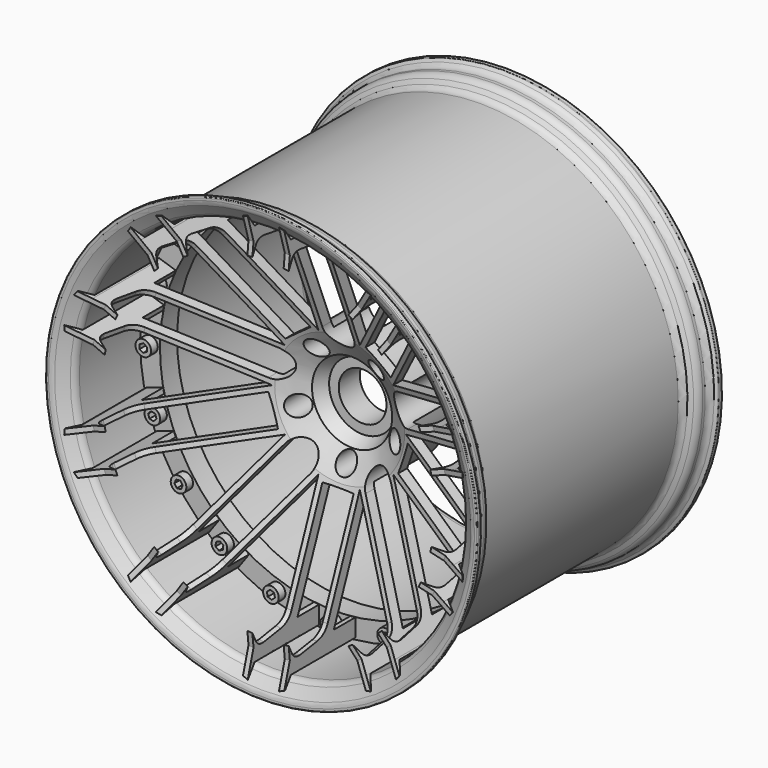
from build123d import *

# Parameters (mm, degrees)
F3_R      = 7.35181
F3_R_2    = 18.073419
F4_DEPTH  = 114.081689
F7_W      = 16.201334
F7_H      = 15.073866
F9_R      = 5.915475
F10_DEPTH = 6.35


with BuildPart() as f1:
    # F0 (on Right) → F1 (revolve)
    with BuildSketch(Plane.YZ):
        with BuildLine():
            Line((0, 25.369024), (0, 0))
            Line((0, 0), (19.948289, 0))
            Line((19.948289, 0), (19.948289, 49.220245))
            Line((19.948289, 49.220245), (-13.226585, 49.220245))
            Line((-13.226585, 49.220245), (-46.835124, 132.482678))
            Line((-46.835124, 132.482678), (-26.453171, 132.482678))
            Line((-26.453171, 132.482678), (-26.453171, 145.926103))
            Line((-26.453171, 145.926103), (-87.382197, 145.926103))
            Line((-87.382197, 145.926103), (-94.124854, 155.55244))
            Line((-94.124854, 155.55244), (-88.466343, 135.951951))
            Line((-88.466343, 135.951951), (-89.550488, 125.977799))
            Line((-89.550488, 125.977799), (-86.304978, 132.609936))
            ThreePointArc((-86.304978, 132.609936), (-83.962747, 135.206094), (-80.601301, 136.168778))
            Line((-80.601301, 136.168778), (-78.709029, 136.168778))
            Line((-78.709029, 136.168778), (-62.39999, 133.601613))
            ThreePointArc((-62.39999, 133.601613), (-56.471927, 130.997681), (-52.597961, 125.809736))
            Line((-52.597961, 125.809736), (-21.682927, 49.220245))
            Line((-21.682927, 49.220245), (-9.974146, 30.356098))
            Line((-9.974146, 30.356098), (0, 25.369024))
        make_face()
    revolve(axis=Axis((0, 9.106828, 0), (0, 1, 0)))

    # F3 (on offset) → F4 (intersect, through all)
    with BuildSketch(Plane.XZ.offset(94.1324)):
        with BuildLine():
            Line((15.650561, -143.704474), (15.650561, -48.167475))
            Line((15.650561, -48.167475), (71.805801, -125.458531))
            Line((71.805801, -125.458531), (77.425853, -133.193869))
            Line((77.425853, -133.193869), (81.356541, -132.105346))
            Line((81.356541, -132.105346), (75.736488, -124.370007))
            Line((75.736488, -124.370007), (75.729283, -124.372003))
            Line((75.729283, -124.372003), (20.809784, -48.781796))
            Line((20.809784, -48.781796), (20.815448, -48.777681))
            ThreePointArc((20.815448, -48.777681), (23.432011, -32.257352), (39.952339, -34.873915))
            Line((39.952339, -34.873915), (39.958004, -34.8698))
            Line((39.958004, -34.8698), (94.879044, -110.462127))
            Line((94.879044, -110.462127), (100.499096, -118.197465))
            Line((100.499096, -118.197465), (102.748993, -114.795531))
            Line((102.748993, -114.795531), (97.12894, -107.060193))
            Line((97.12894, -107.060193), (40.973701, -29.769136))
            Line((40.973701, -29.769136), (131.834787, -59.291693))
            Line((131.834787, -59.291693), (140.928223, -62.246329))
            Line((140.928223, -62.246329), (143.468398, -59.055295))
            Line((143.468398, -59.055295), (134.374962, -56.100659))
            Line((134.374962, -56.100659), (134.370306, -56.106508))
            Line((134.370306, -56.106508), (45.508689, -27.233618))
            Line((45.508689, -27.233618), (52.822658, -4.723535))
            Line((52.822658, -4.723535), (141.686768, -33.597235))
            Line((141.686768, -33.597235), (150.780204, -36.551871))
            Line((150.780204, -36.551871), (150.600802, -32.477193))
            Line((150.600802, -32.477193), (141.507366, -29.522556))
            Line((141.507366, -29.522556), (50.64628, 0))
            Line((50.64628, 0), (141.507366, 29.522556))
            Line((141.507366, 29.522556), (150.600802, 32.477193))
            Line((150.600802, 32.477193), (150.780204, 36.551871))
            Line((150.780204, 36.551871), (141.686768, 33.597235))
            Line((141.686768, 33.597235), (141.686439, 33.589766))
            Line((141.686439, 33.589766), (52.824822, 4.716876))
            ThreePointArc((52.824822, 4.716876), (37.912796, 12.314933), (45.510853, 27.226959))
            Line((45.510853, 27.226959), (134.374962, 56.100659))
            Line((134.374962, 56.100659), (143.468398, 59.055295))
            Line((143.468398, 59.055295), (140.928223, 62.246329))
            Line((140.928223, 62.246329), (131.834787, 59.291693))
            Line((131.834787, 59.291693), (40.973701, 29.769136))
            Line((40.973701, 29.769136), (97.12894, 107.060193))
            Line((97.12894, 107.060193), (102.748993, 114.795531))
            Line((102.748993, 114.795531), (100.499096, 118.197465))
            Line((100.499096, 118.197465), (94.879044, 110.462127))
            Line((94.879044, 110.462127), (94.883168, 110.455891))
            Line((94.883168, 110.455891), (39.963668, 34.865684))
            Line((39.963668, 34.865684), (20.815448, 48.777681))
            Line((20.815448, 48.777681), (75.736488, 124.370007))
            Line((75.736488, 124.370007), (81.356541, 132.105346))
            Line((81.356541, 132.105346), (77.425853, 133.193869))
            Line((77.425853, 133.193869), (71.805801, 125.458531))
            Line((71.805801, 125.458531), (15.650561, 48.167475))
            Line((15.650561, 48.167475), (15.650561, 143.704474))
            Line((15.650561, 143.704474), (15.650561, 153.265879))
            Line((15.650561, 153.265879), (11.83075, 154.695645))
            Line((11.83075, 154.695645), (11.83075, 145.13424))
            Line((11.83075, 145.13424), (11.837752, 145.13162))
            Line((11.837752, 145.13162), (11.837752, 51.696986))
            ThreePointArc((11.837752, 51.696986), (-0.203573, 39.860985), (-11.83075, 52.104072))
            Line((-11.83075, 52.104072), (-11.83075, 145.13424))
            Line((-11.83075, 145.13424), (-11.83075, 154.695645))
            Line((-11.83075, 154.695645), (-15.650561, 153.265879))
            Line((-15.650561, 153.265879), (-15.650561, 143.704474))
            Line((-15.650561, 143.704474), (-15.650561, 48.167475))
            Line((-15.650561, 48.167475), (-71.805801, 125.458531))
            Line((-71.805801, 125.458531), (-77.425853, 133.193869))
            Line((-77.425853, 133.193869), (-81.356541, 132.105346))
            Line((-81.356541, 132.105346), (-75.736488, 124.370007))
            Line((-75.736488, 124.370007), (-75.729283, 124.372003))
            Line((-75.729283, 124.372003), (-20.809784, 48.781796))
            Line((-20.809784, 48.781796), (-39.958004, 34.8698))
            Line((-39.958004, 34.8698), (-94.879044, 110.462127))
            Line((-94.879044, 110.462127), (-100.499096, 118.197465))
            Line((-100.499096, 118.197465), (-102.748993, 114.795531))
            Line((-102.748993, 114.795531), (-97.12894, 107.060193))
            Line((-97.12894, 107.060193), (-40.973701, 29.769136))
            Line((-40.973701, 29.769136), (-131.834787, 59.291693))
            Line((-131.834787, 59.291693), (-140.928223, 62.246329))
            Line((-140.928223, 62.246329), (-143.468398, 59.055295))
            Line((-143.468398, 59.055295), (-134.374962, 56.100659))
            Line((-134.374962, 56.100659), (-134.370306, 56.106508))
            Line((-134.370306, 56.106508), (-45.508689, 27.233618))
            ThreePointArc((-45.508689, 27.233618), (-37.910632, 12.321592), (-52.822658, 4.723535))
            Line((-52.822658, 4.723535), (-141.686768, 33.597235))
            Line((-141.686768, 33.597235), (-150.780204, 36.551871))
            Line((-150.780204, 36.551871), (-150.600802, 32.477193))
            Line((-150.600802, 32.477193), (-141.507366, 29.522556))
            Line((-141.507366, 29.522556), (-50.64628, 0))
            Line((-50.64628, 0), (-141.507366, -29.522556))
            Line((-141.507366, -29.522556), (-150.600802, -32.477193))
            Line((-150.600802, -32.477193), (-150.780204, -36.551871))
            Line((-150.780204, -36.551871), (-141.686768, -33.597235))
            Line((-141.686768, -33.597235), (-141.686439, -33.589766))
            Line((-141.686439, -33.589766), (-52.824822, -4.716876))
            Line((-52.824822, -4.716876), (-45.510853, -27.226959))
            Line((-45.510853, -27.226959), (-134.374962, -56.100659))
            Line((-134.374962, -56.100659), (-143.468398, -59.055295))
            Line((-143.468398, -59.055295), (-140.928223, -62.246329))
            Line((-140.928223, -62.246329), (-131.834787, -59.291693))
            Line((-131.834787, -59.291693), (-40.973701, -29.769136))
            Line((-40.973701, -29.769136), (-97.12894, -107.060193))
            Line((-97.12894, -107.060193), (-102.748993, -114.795531))
            Line((-102.748993, -114.795531), (-100.499096, -118.197465))
            Line((-100.499096, -118.197465), (-94.879044, -110.462127))
            Line((-94.879044, -110.462127), (-94.883168, -110.455891))
            Line((-94.883168, -110.455891), (-40.202983, -35.195073))
            ThreePointArc((-40.202983, -35.195073), (-23.429445, -32.241908), (-21.054763, -49.107069))
            Line((-21.054763, -49.107069), (-75.736488, -124.370007))
            Line((-75.736488, -124.370007), (-81.356541, -132.105346))
            Line((-81.356541, -132.105346), (-77.425853, -133.193869))
            Line((-77.425853, -133.193869), (-71.805801, -125.458531))
            Line((-71.805801, -125.458531), (-15.650561, -48.167475))
            Line((-15.650561, -48.167475), (-15.650561, -143.704474))
            Line((-15.650561, -143.704474), (-15.650561, -153.265879))
            Line((-15.650561, -153.265879), (-11.83075, -154.695645))
            Line((-11.83075, -154.695645), (-11.83075, -145.13424))
            Line((-11.83075, -145.13424), (-11.837752, -145.13162))
            Line((-11.837752, -145.13162), (-11.837752, -51.696986))
            Line((-11.837752, -51.696986), (11.83075, -51.696986))
            Line((11.83075, -51.696986), (11.83075, -145.13424))
            Line((11.83075, -145.13424), (11.83075, -154.695645))
            Line((11.83075, -154.695645), (15.650561, -153.265879))
            Line((15.650561, -153.265879), (15.650561, -143.704474))
        make_face()
        with Locations((-36.610517, -11.895478)):
            Circle(F3_R, mode=Mode.SUBTRACT)
        with Locations((0, -38.494575)):
            Circle(F3_R, mode=Mode.SUBTRACT)
        Circle(F3_R_2, mode=Mode.SUBTRACT)
        with Locations((36.610517, -11.895478)):
            Circle(F3_R, mode=Mode.SUBTRACT)
        with Locations((-22.626544, 31.142766)):
            Circle(F3_R, mode=Mode.SUBTRACT)
        with Locations((22.626544, 31.142766)):
            Circle(F3_R, mode=Mode.SUBTRACT)
    extrude(amount=-F4_DEPTH, mode=Mode.INTERSECT)


with BuildPart() as f6:
    # F5 (on Right) → F6 (revolve)
    with BuildSketch(Plane.YZ):
        with BuildLine():
            Line((-83.985338, 147.36928), (-26.214341, 147.36928))
            Line((-26.214341, 147.36928), (20.249797, 147.36928))
            Line((20.249797, 147.36928), (20.249797, 150.086939))
            Line((20.249797, 150.086939), (-70.723666, 150.086939))
            ThreePointArc((-70.723666, 150.086939), (-73.689381, 150.822045), (-75.968446, 152.857165))
            Line((-75.968446, 152.857165), (-78.007026, 155.843918))
            ThreePointArc((-78.007026, 155.843918), (-80.286091, 157.879038), (-83.251806, 158.614144))
            Line((-83.251806, 158.614144), (-85.570926, 158.614144))
            ThreePointArc((-85.570926, 158.614144), (-88.471167, 159.315152), (-90.731063, 161.263403))
            Line((-90.731063, 161.263403), (-92.176794, 163.279261))
            ThreePointArc((-92.176794, 163.279261), (-92.383087, 163.457105), (-92.647832, 163.521096))
            Line((-92.647832, 163.521096), (-95.109636, 163.521096))
            ThreePointArc((-95.109636, 163.521096), (-95.519513, 163.35132), (-95.689289, 162.941443))
            Line((-95.689289, 162.941443), (-95.689289, 161.327534))
            ThreePointArc((-95.689289, 161.327534), (-95.393152, 159.410963), (-94.532362, 157.673154))
            Line((-94.532362, 157.673154), (-89.178411, 150.0649))
            ThreePointArc((-89.178411, 150.0649), (-86.910845, 148.083333), (-83.985338, 147.36928))
        make_face()
        with BuildLine():
            Line((20.249797, 150.086939), (20.249797, 147.36928))
            Line((20.249797, 147.36928), (66.713935, 147.36928))
            Line((66.713935, 147.36928), (124.484932, 147.36928))
            ThreePointArc((124.484932, 147.36928), (127.410439, 148.083333), (129.678005, 150.0649))
            Line((129.678005, 150.0649), (135.031956, 157.673154))
            ThreePointArc((135.031956, 157.673154), (135.892746, 159.410963), (136.188883, 161.327534))
            Line((136.188883, 161.327534), (136.188883, 162.941443))
            ThreePointArc((136.188883, 162.941443), (136.019107, 163.35132), (135.60923, 163.521096))
            Line((135.60923, 163.521096), (133.147427, 163.521096))
            ThreePointArc((133.147427, 163.521096), (132.882681, 163.457105), (132.676388, 163.279261))
            Line((132.676388, 163.279261), (131.230657, 161.263403))
            ThreePointArc((131.230657, 161.263403), (128.970761, 159.315152), (126.07052, 158.614144))
            Line((126.07052, 158.614144), (123.7514, 158.614144))
            ThreePointArc((123.7514, 158.614144), (120.785685, 157.879038), (118.50662, 155.843918))
            Line((118.50662, 155.843918), (116.46804, 152.857165))
            ThreePointArc((116.46804, 152.857165), (114.188975, 150.822045), (111.22326, 150.086939))
            Line((111.22326, 150.086939), (20.249797, 150.086939))
        make_face()
    revolve(axis=Axis((0, 9.446349, 0), (0, 1, 0)))


with BuildPart() as f8:
    # F7 (on Right) → F8 (revolve)
    with BuildSketch(Plane.YZ):
        with Locations((-18.340728, 139.887318)):
            Rectangle(F7_W, F7_H)
    revolve(axis=Axis((0, 9.676728, 0), (0, 1, 0)))


with BuildPart() as f10:
    # F9 (on face) → F10 (new body)
    with BuildSketch(Plane.XZ.offset(26.441395)):
        with Locations((0, 139.887318)):
            Circle(F9_R)
        Polygon((-3.223581, 139.887318), (-1.61179, 142.679021), (1.61179, 142.679021), (3.223581, 139.887318), (1.61179, 137.095615), (-1.61179, 137.095615), align=None, mode=Mode.SUBTRACT)
        with Locations((-43.227559, 133.040745)):
            Circle(F9_R)
        Polygon((-46.293366, 132.044604), (-45.623146, 135.197742), (-42.557338, 136.193883), (-40.161751, 134.036887), (-40.831971, 130.883749), (-43.897779, 129.887608), align=None, mode=Mode.SUBTRACT)
        with Locations((-82.223703, 113.171218)):
            Circle(F9_R)
        Polygon((-84.831634, 111.276444), (-85.16859, 114.482366), (-82.560658, 116.377139), (-79.615771, 115.065991), (-79.278815, 111.860069), (-81.886747, 109.965296), align=None, mode=Mode.SUBTRACT)
        with Locations((-113.171218, 82.223703)):
            Circle(F9_R)
        Polygon((-115.065991, 79.615771), (-116.377139, 82.560658), (-114.482366, 85.16859), (-111.276444, 84.831634), (-109.965296, 81.886747), (-111.860069, 79.278815), align=None, mode=Mode.SUBTRACT)
        with Locations((-133.040745, 43.227559)):
            Circle(F9_R)
        Polygon((-134.036887, 40.161751), (-136.193883, 42.557338), (-135.197742, 45.623146), (-132.044604, 46.293366), (-129.887608, 43.897779), (-130.883749, 40.831971), align=None, mode=Mode.SUBTRACT)
        with Locations((-139.887318, 0)):
            Circle(F9_R)
        Polygon((-139.887318, -3.223581), (-142.679021, -1.61179), (-142.679021, 1.61179), (-139.887318, 3.223581), (-137.095615, 1.61179), (-137.095615, -1.61179), align=None, mode=Mode.SUBTRACT)
        with Locations((-133.040745, -43.227559)):
            Circle(F9_R)
        Polygon((-132.044604, -46.293366), (-135.197742, -45.623146), (-136.193883, -42.557338), (-134.036887, -40.161751), (-130.883749, -40.831971), (-129.887608, -43.897779), align=None, mode=Mode.SUBTRACT)
        with Locations((-113.171218, -82.223703)):
            Circle(F9_R)
        Polygon((-111.276444, -84.831634), (-114.482366, -85.16859), (-116.377139, -82.560658), (-115.065991, -79.615771), (-111.860069, -79.278815), (-109.965296, -81.886747), align=None, mode=Mode.SUBTRACT)
        with Locations((-82.223703, -113.171218)):
            Circle(F9_R)
        Polygon((-79.615771, -115.065991), (-82.560658, -116.377139), (-85.16859, -114.482366), (-84.831634, -111.276444), (-81.886747, -109.965296), (-79.278815, -111.860069), align=None, mode=Mode.SUBTRACT)
        with Locations((-43.227559, -133.040745)):
            Circle(F9_R)
        Polygon((-40.161751, -134.036887), (-42.557338, -136.193883), (-45.623146, -135.197742), (-46.293366, -132.044604), (-43.897779, -129.887608), (-40.831971, -130.883749), align=None, mode=Mode.SUBTRACT)
        with Locations((0, -139.887318)):
            Circle(F9_R)
        Polygon((3.223581, -139.887318), (1.61179, -142.679021), (-1.61179, -142.679021), (-3.223581, -139.887318), (-1.61179, -137.095615), (1.61179, -137.095615), align=None, mode=Mode.SUBTRACT)
        with Locations((43.227559, -133.040745)):
            Circle(F9_R)
        Polygon((46.293366, -132.044604), (45.623146, -135.197742), (42.557338, -136.193883), (40.161751, -134.036887), (40.831971, -130.883749), (43.897779, -129.887608), align=None, mode=Mode.SUBTRACT)
        with Locations((82.223703, -113.171218)):
            Circle(F9_R)
        Polygon((84.831634, -111.276444), (85.16859, -114.482366), (82.560658, -116.377139), (79.615771, -115.065991), (79.278815, -111.860069), (81.886747, -109.965296), align=None, mode=Mode.SUBTRACT)
        with Locations((113.171218, -82.223703)):
            Circle(F9_R)
        Polygon((115.065991, -79.615771), (116.377139, -82.560658), (114.482366, -85.16859), (111.276444, -84.831634), (109.965296, -81.886747), (111.860069, -79.278815), align=None, mode=Mode.SUBTRACT)
        with Locations((133.040745, -43.227559)):
            Circle(F9_R)
        Polygon((134.036887, -40.161751), (136.193883, -42.557338), (135.197742, -45.623146), (132.044604, -46.293366), (129.887608, -43.897779), (130.883749, -40.831971), align=None, mode=Mode.SUBTRACT)
        with Locations((139.887318, 0)):
            Circle(F9_R)
        Polygon((139.887318, 3.223581), (142.679021, 1.61179), (142.679021, -1.61179), (139.887318, -3.223581), (137.095615, -1.61179), (137.095615, 1.61179), align=None, mode=Mode.SUBTRACT)
        with Locations((133.040745, 43.227559)):
            Circle(F9_R)
        Polygon((132.044604, 46.293366), (135.197742, 45.623146), (136.193883, 42.557338), (134.036887, 40.161751), (130.883749, 40.831971), (129.887608, 43.897779), align=None, mode=Mode.SUBTRACT)
        with Locations((113.171218, 82.223703)):
            Circle(F9_R)
        Polygon((111.276444, 84.831634), (114.482366, 85.16859), (116.377139, 82.560658), (115.065991, 79.615771), (111.860069, 79.278815), (109.965296, 81.886747), align=None, mode=Mode.SUBTRACT)
        with Locations((82.223703, 113.171218)):
            Circle(F9_R)
        Polygon((79.615771, 115.065991), (82.560658, 116.377139), (85.16859, 114.482366), (84.831634, 111.276444), (81.886747, 109.965296), (79.278815, 111.860069), align=None, mode=Mode.SUBTRACT)
        with Locations((43.227559, 133.040745)):
            Circle(F9_R)
        Polygon((40.161751, 134.036887), (42.557338, 136.193883), (45.623146, 135.197742), (46.293366, 132.044604), (43.897779, 129.887608), (40.831971, 130.883749), align=None, mode=Mode.SUBTRACT)
    extrude(amount=F10_DEPTH)


solid = Compound([f1.part, f6.part, f8.part, f10.part])
